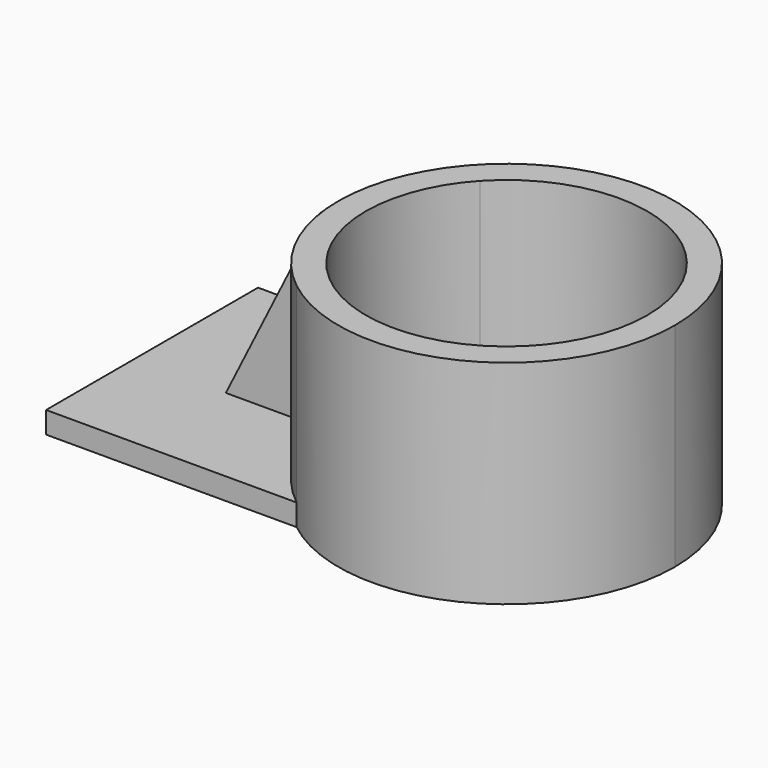
from build123d import *

# Parameters (mm, degrees)
F1_DEPTH = 47.244
F2_DEPTH = 4.826
F4_DEPTH = 5.08


with BuildPart() as f1:
    # F0 (on Top) → F1 (new body)
    with BuildSketch(Plane.XY):
        with BuildLine():
            Line((-22.916476, 21.291338), (-22.916476, 29.532059))
            ThreePointArc((-22.916476, 29.532059), (-37.380167, 0.174641), (-23.191419, -29.316641))
            Line((-23.191419, -29.316641), (-22.916476, -29.316641))
            Line((-22.916476, -29.316641), (-22.916476, -21.291338))
            ThreePointArc((-22.916476, -21.291338), (-31.28076, 0), (-22.916476, 21.291338))
        make_face()
        with BuildLine():
            ThreePointArc((-23.191419, -29.316641), (16.284944, -33.646812), (37.380575, 0))
            ThreePointArc((37.380575, 0), (16.441963, 33.570362), (-22.916476, 29.532059))
            Line((-22.916476, 29.532059), (-22.916476, 21.291338))
            ThreePointArc((-22.916476, 21.291338), (11.437683, 29.114693), (31.28076, 0))
            ThreePointArc((31.28076, 0), (11.437683, -29.114693), (-22.916476, -21.291338))
            Line((-22.916476, -21.291338), (-22.916476, -29.316641))
            Line((-22.916476, -29.316641), (-23.191419, -29.316641))
        make_face()
    extrude(amount=F1_DEPTH)

    # F0 (on Top) → F2 (join)
    with BuildSketch(Plane.XY):
        with BuildLine():
            ThreePointArc((-23.191419, -29.316641), (-37.380167, 0.174641), (-22.916476, 29.532059))
            Line((-22.916476, 29.532059), (-78.842215, 29.532059))
            Line((-78.842215, 29.532059), (-78.842215, -29.316641))
            Line((-78.842215, -29.316641), (-23.191419, -29.316641))
        make_face()
    extrude(amount=F2_DEPTH)

    # F3 (on Front) → F4 (join, symmetric)
    with BuildSketch(Plane.XZ):
        Polygon((-37.321575, 4.987057), (-37.321575, 47.026183), (-58.294769, 4.987057), align=None)
    extrude(amount=F4_DEPTH, both=True)


solid = f1.part
